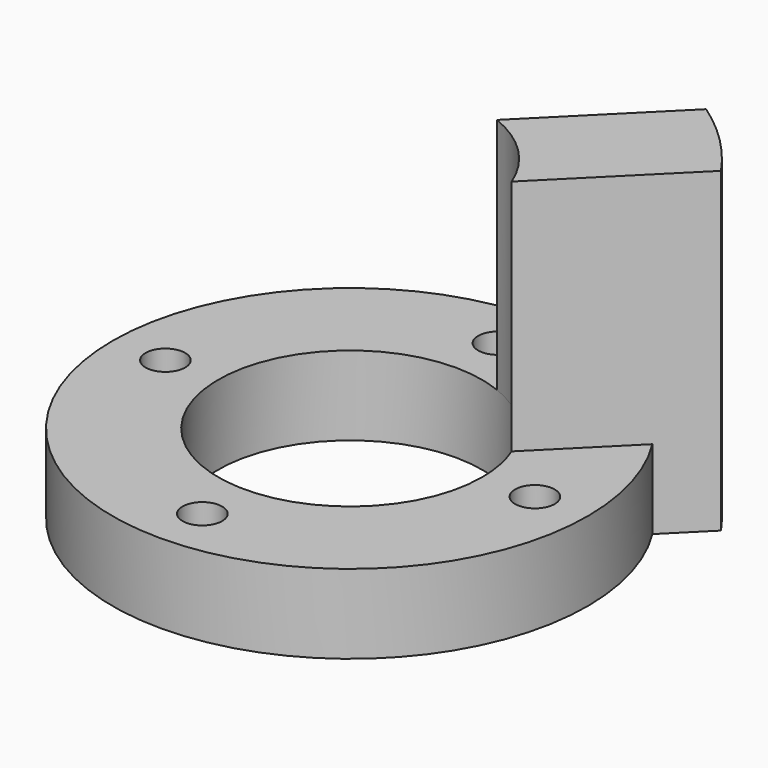
from build123d import *

# Parameters (mm, degrees)
F0_R     = 14.2875
F0_R_2   = 7.9375
F1_DEPTH = 4.7625
F2_R     = 1.190625
F3_DEPTH = 25.4
F5_DEPTH = 19.05


with BuildPart() as f1:
    # F0 (on Top) → F1 (new body)
    with BuildSketch(Plane.XY):
        Circle(F0_R)
        Circle(F0_R_2, mode=Mode.SUBTRACT)
    extrude(amount=F1_DEPTH)

    # F2 (on Top) → F3 (cut)
    with BuildSketch(Plane.XY):
        with Locations((0, 11.1125)):
            Circle(F2_R)
        with Locations((11.1125, 0)):
            Circle(F2_R)
        with Locations((-11.1125, 0)):
            Circle(F2_R)
        with Locations((0, -11.1125)):
            Circle(F2_R)
    extrude(amount=F3_DEPTH, mode=Mode.SUBTRACT)

    # F4 (on Top) → F5 (join)
    with BuildSketch(Plane.XY):
        with BuildLine():
            Line((5.61266, 5.61266), (12.347852, 12.347852))
            ThreePointArc((12.347852, 12.347852), (11.176734, 13.417135), (9.91344, 14.375765))
            Line((9.91344, 14.375765), (2.91897, 7.381295))
            ThreePointArc((2.91897, 7.381295), (4.356512, 6.635112), (5.61266, 5.61266))
        make_face()
        with BuildLine():
            Line((7.381295, 2.91897), (14.375765, 9.91344))
            ThreePointArc((14.375765, 9.91344), (13.417135, 11.176734), (12.347852, 12.347852))
            Line((12.347852, 12.347852), (5.61266, 5.61266))
            ThreePointArc((5.61266, 5.61266), (6.635112, 4.356512), (7.381295, 2.91897))
        make_face()
    extrude(amount=F5_DEPTH)


solid = f1.part
